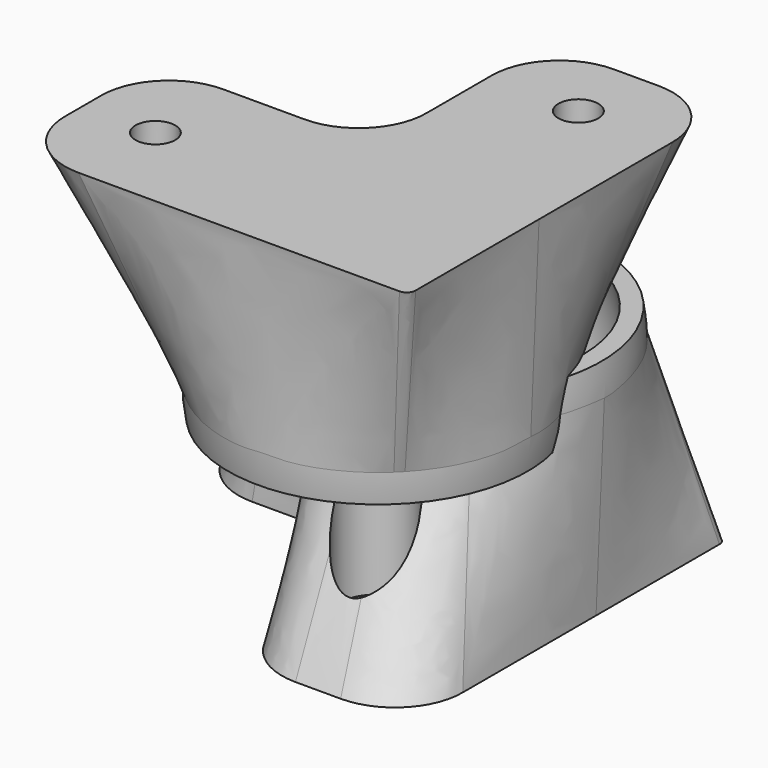
from build123d import *

# Parameters (mm, degrees)
SKETCH003_R           = 4
PAD_DEPTH             = 20.178
SKETCH004_R           = 2.2
PAD001_DEPTH          = 24.178
BOX_W                 = 33.8
BOX_H                 = 33.8
BOX_DEPTH             = 33.8
SKETCH_R              = 16.899
CLONE_PLACEMENT_ANGLE = 180


with BuildPart() as pad:
    # Sketch003 → Pad (new body)
    with BuildSketch(Plane.XY.offset(-3.278)):
        with Locations((12, 14)):
            Circle(SKETCH003_R)
        with Locations((-14, -12)):
            Circle(SKETCH003_R)
    extrude(amount=PAD_DEPTH)


with BuildPart() as pad001:
    # Sketch004 → Pad001 (new body)
    with BuildSketch(Plane.XY.offset(-3.278)):
        with Locations((12, 14)):
            Circle(SKETCH004_R)
        with Locations((-14, -12)):
            Circle(SKETCH004_R)
    extrude(amount=PAD001_DEPTH)


with BuildPart() as sphere001:
    # Sphere001 → Sphere001 (revolve)
    with BuildSketch(Plane(origin=(5.1, -5.1, 0), x_dir=(1, 0, 0), z_dir=(0, -1, 0))):
        with BuildLine():
            ThreePointArc((0, -14.9), (14.9, 0), (0, 14.9))
            Line((0, 14.9), (0, -14.9))
        make_face()
    revolve(axis=Axis((5.1, -5.1, 0), (0, 0, 1)))


with BuildPart() as cube:
    # Box → Box (new body)
    with BuildSketch(Plane(origin=(-11.8, -22, -37.078), x_dir=(1, 0, 0), z_dir=(0, 0, 1))):
        with Locations((16.9, 16.9)):
            Rectangle(BOX_W, BOX_H)
    extrude(amount=BOX_DEPTH)


with BuildPart() as sphere:
    # Sphere → Sphere (revolve)
    with BuildSketch(Plane(origin=(5.1, -5.1, 0), x_dir=(1, 0, 0), z_dir=(0, -1, 0))):
        with BuildLine():
            ThreePointArc((0, -16.9), (16.9, 0), (0, 16.9))
            Line((0, 16.9), (0, -16.9))
        make_face()
    revolve(axis=Axis((5.1, -5.1, 0), (0, 0, 1)))


with BuildPart() as foot:
    # Sketch → Loft section 0
    with BuildSketch(Plane.XY):
        with Locations((5.1, -5.1)):
            Circle(SKETCH_R)
    # Sketch001 → Loft section 1
    with BuildSketch(Plane.XY.offset(20.9)):
        with BuildLine():
            Line((22, 14.5), (22, -21))
            ThreePointArc((21, -22), (21.707107, -21.707107), (22, -21))
            Line((21, -22), (-14.5, -22))
            ThreePointArc((-22, -14.5), (-19.803301, -19.803301), (-14.5, -22))
            Line((-22, -14.5), (-22, -9.5))
            ThreePointArc((-14.5, -2), (-19.803301, -4.196699), (-22, -9.5))
            Line((-14.5, -2), (-5.5, -2))
            ThreePointArc((-5.5, -2), (-0.196699, 0.196699), (2, 5.5))
            Line((2, 5.5), (2, 14.5))
            ThreePointArc((9.5, 22), (4.196699, 19.803301), (2, 14.5))
            Line((9.5, 22), (14.5, 22))
            ThreePointArc((22, 14.5), (19.803301, 19.803301), (14.5, 22))
        make_face()
    loft()

    # Fusion: union Sphere
    add(sphere.part)

    # Cut: cut Cube
    add(cube.part, mode=Mode.SUBTRACT)

    # Cut001: cut Sphere001
    add(sphere001.part, mode=Mode.SUBTRACT)

    # Cut002: cut Pad001
    add(pad001.part, mode=Mode.SUBTRACT)

    # Cut003: cut Pad
    add(pad.part, mode=Mode.SUBTRACT)


with BuildPart() as foot_rotated:
    # Clone base: copy of Foot
    add(foot.part)


with BuildPart() as foot_rotated_1:
    # Clone placement: moved
    add(foot_rotated.part.rotate(Axis((0, 0, 0), (1, 0, 0)), CLONE_PLACEMENT_ANGLE))


solid = Compound([foot.part, foot_rotated_1.part])
